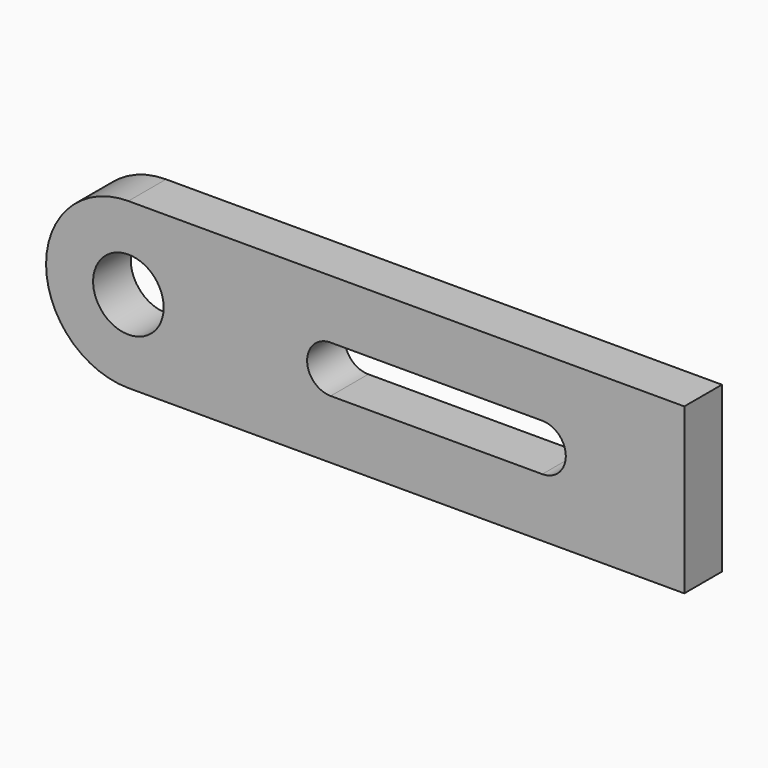
from build123d import *

# Parameters (mm, degrees)
F0_R     = 7.5
F1_DEPTH = 10


with BuildPart() as f1:
    # F0 (on Front) → F1 (new body)
    with BuildSketch(Plane.XZ):
        with BuildLine():
            Line((118.186333, 17.5), (0, 17.5))
            ThreePointArc((0, 17.5), (-17.5, 0), (0, -17.5))
            Line((0, -17.5), (118.186333, -17.5))
            Line((118.186333, -17.5), (118.186333, 17.5))
        make_face()
        Circle(F0_R, mode=Mode.SUBTRACT)
        with BuildLine():
            ThreePointArc((42.80941, 4.996475), (42.996734, 5), (43.184058, 4.996504))
            Line((43.184058, 4.996504), (87.996734, 5))
            ThreePointArc((87.996734, 5), (92.997124, 0.000195), (87.997124, -5))
            Line((87.997124, -5), (42.997124, -5))
            ThreePointArc((42.997124, -5), (37.998005, -0.093873), (42.80941, 4.996475))
        make_face(mode=Mode.SUBTRACT)
    extrude(amount=F1_DEPTH)


solid = f1.part
